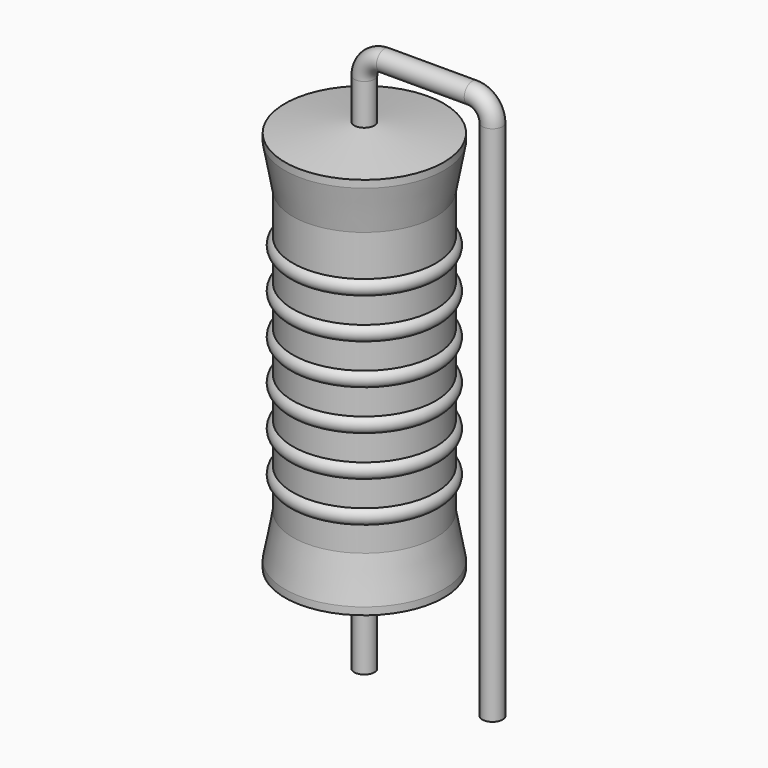
from build123d import *

# Parameters (mm, degrees)
SKETCH_R = 0.4


with BuildPart() as sweep_body:
    # Sweep: sweep along a path in Sketch001
    with BuildLine(Plane.XZ) as sweep_path:
        Line((0, -3), (0, 17.7))
        ThreePointArc((0, 17.7), (0.234311, 18.265681), (0.799989, 18.5))
        Line((0.799989, 18.5), (4.28, 18.5))
        ThreePointArc((4.28, 18.5), (4.845685, 18.265685), (5.08, 17.7))
        Line((5.08, 17.7), (5.08, -3))
    # Sketch → Sweep (sweep)
    with BuildSketch(Plane.XY.offset(-2)):
        Circle(SKETCH_R)
    sweep(path=sweep_path.line)


with BuildPart() as revolution:
    # Sketch002 → Revolution (revolve)
    with BuildSketch(Plane.XZ):
        Polygon((0, 0.1), (0, 16.1), (0.3, 16.1), (3.15, 15.7), (3.15, 15.4075), (2.835, 13.7), (2.835, 2.5), (3.15, 0.7925), (3.15, 0.5), (0.3, 0.1), align=None)
    revolve(axis=Axis((0, 0, 0), (0, 0, 1)))


with BuildPart() as revolution001:
    # Sketch003 → Revolution001 (revolve)
    with BuildSketch(Plane.XZ):
        with BuildLine():
            Line((2.52, 13.07), (2.52, 2.5))
            Line((2.52, 2.5), (2.709, 2.5))
            Line((2.709, 2.5), (2.709, 3.47))
            ThreePointArc((2.709, 3.47), (3.024, 3.785), (2.709, 4.1))
            Line((2.709, 4.1), (2.709, 5.07))
            ThreePointArc((2.709, 5.07), (3.024, 5.385), (2.709, 5.7))
            Line((2.709, 5.7), (2.709, 6.67))
            ThreePointArc((2.709, 6.67), (3.024, 6.985), (2.709, 7.3))
            Line((2.709, 7.3), (2.709, 8.27))
            ThreePointArc((2.709, 8.27), (3.024, 8.585), (2.709, 8.9))
            Line((2.709, 8.9), (2.709, 9.87))
            ThreePointArc((2.709, 9.87), (3.024, 10.185), (2.709, 10.5))
            Line((2.709, 10.5), (2.709, 11.47))
            ThreePointArc((2.709, 11.47), (3.024, 11.785), (2.709, 12.1))
            Line((2.709, 13.07), (2.709, 12.1))
            Line((2.52, 13.07), (2.709, 13.07))
        make_face()
    revolve(axis=Axis((0, 0, 0), (0, 0, 1)))


solid = Compound([sweep_body.part, revolution.part, revolution001.part])
